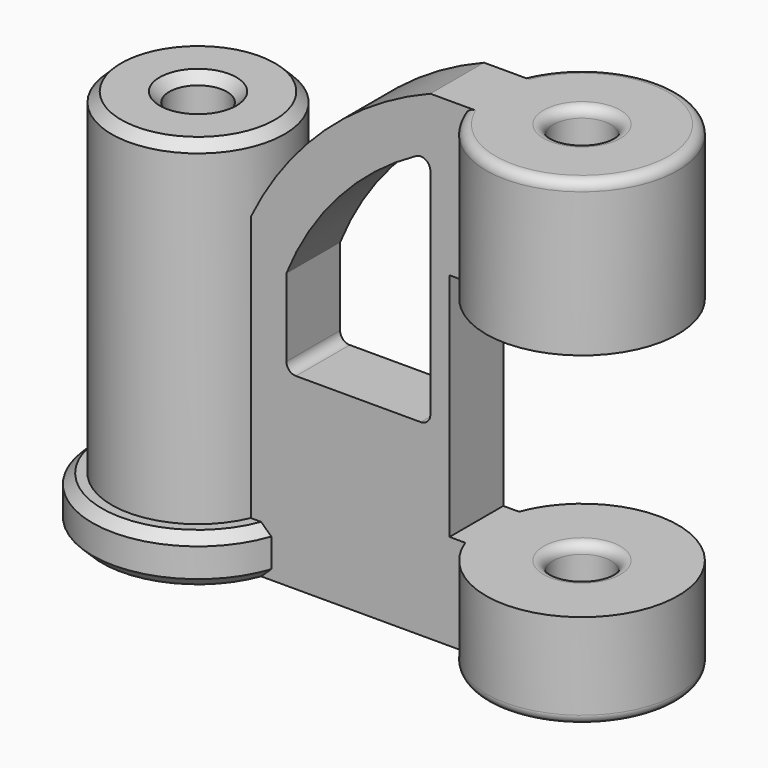
from build123d import *

# Parameters (mm, degrees)
F0_R     = 25.4
F0_R_2   = 7.62
F1_DEPTH = 127
F0_R_3   = 22.86
F2_DEPTH = 101.6
F4_DEPTH = 8.89
F5_W     = 60.96
F5_H     = 60.96
F6_DEPTH = 50.8
F7_R     = 2.54
F8_R     = 27.94
F8_R_2   = 22.86
F9_DEPTH = 12.7
F10_SIZE = 2.54


with BuildPart() as f1:
    # F0 (on Top) → F1 (new body)
    with BuildSketch(Plane.XY):
        Circle(F0_R)
        Circle(F0_R_2, mode=Mode.SUBTRACT)
    extrude(amount=F1_DEPTH)



with BuildPart() as f2:
    # F0 (on Top) → F2 (new body)
    with BuildSketch(Plane.XY):
        with Locations((-101.6, 0)):
            Circle(F0_R_3)
        with Locations((-101.6, 0)):
            Circle(F0_R_2, mode=Mode.SUBTRACT)
    extrude(amount=F2_DEPTH)


with BuildPart() as f1_1:
    add(f1.part)

    add(f2.part)  # F4 merges F2
    # F3 (on Front) → F4 (join, symmetric)
    with BuildSketch(Plane.XZ):
        with BuildLine():
            Line((-20.32, 0), (-20.32, 127))
            Line((-20.32, 127), (-33.02, 127))
            ThreePointArc((-33.02, 127), (-61.5844056789, 108.82076155), (-81.28, 81.28))
            Line((-81.28, 81.28), (-81.28, 0))
            Line((-81.28, 0), (-20.32, 0))
        make_face()
        with BuildLine():
            ThreePointArc((-71.12, 72.7674195988), (-55.8815349001, 96.5627163287), (-33.02, 113.1692568198))
            Line((-33.02, 113.1692568198), (-33.02, 49.6692568198))
            Line((-33.02, 49.6692568198), (-71.12, 49.6692568198))
            Line((-71.12, 49.6692568198), (-71.12, 72.7674195988))
        make_face(mode=Mode.SUBTRACT)
    extrude(amount=F4_DEPTH, both=True)

    # F5 (on Front) → F6 (cut, symmetric)
    with BuildSketch(Plane.XZ):
        with Locations((2.54, 55.88)):
            Rectangle(F5_W, F5_H)
    extrude(amount=F6_DEPTH, both=True, mode=Mode.SUBTRACT)

    # F7
    f7_edges = [f1_1.edges().sort_by_distance(p)[0] for p in [
        (25.4, 0, 127),
        (25.4, 0, 0),
        (-7.62, 0, 86.36),
        (-7.62, 0, 0),
        (-7.62, 0, 127),
        (-7.62, 0, 25.4),
        (-33.02, 0, 49.669257),
        (-71.12, 0, 49.669257),
        (-33.02, 0, 113.169257),
    ]]
    fillet(f7_edges, radius=F7_R)

    # F8 (on Top) → F9 (join)
    with BuildSketch(Plane.XY):
        with Locations((-101.6, 0)):
            Circle(F8_R)
        with Locations((-101.6, 0)):
            Circle(F8_R_2, mode=Mode.SUBTRACT)
    extrude(amount=F9_DEPTH)

    # F10
    f10_edges = [f1_1.edges().sort_by_distance(p)[0] for p in [
        (-129.54, 0, 0),
        (-109.22, 0, 0),
        (-129.54, 0, 12.7),
        (-124.46, 0, 101.6),
        (-109.22, 0, 101.6),
    ]]
    chamfer(f10_edges, length=F10_SIZE)


solid = f1_1.part
